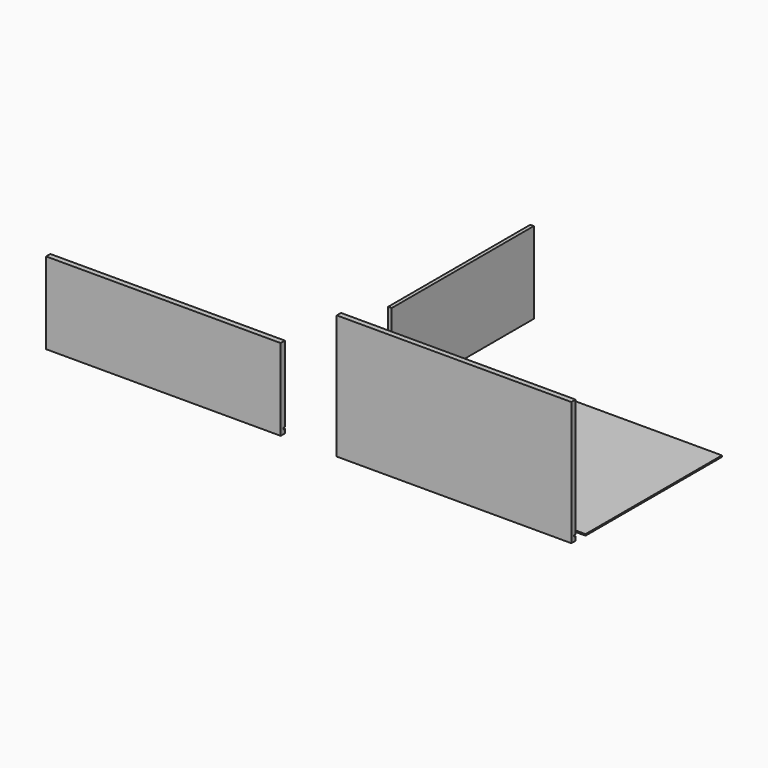
from build123d import *

# Parameters (mm, degrees)
F0_W      = 660.5
F0_H      = 12
F0_H_2    = 4
F0_H_3    = 334
F1_DEPTH  = 15
F2_W      = 662.5
F2_H      = 480
F3_DEPTH  = 4
F4_DEPTH  = 5
F5_W      = 660.5
F5_H      = 214
F5_H_2    = 4
F5_H_3    = 12
F6_DEPTH  = 15
F7_DEPTH  = 5
F8_W      = 500
F8_H      = 214
F8_H_2    = 4
F8_H_3    = 12
F9_DEPTH  = 10
F10_DEPTH = 5


with BuildPart() as f1:
    # F0 (on Front) → F1 (new body)
    with BuildSketch(Plane.XZ):
        with Locations((330.25, 6)):
            Rectangle(F0_W, F0_H)
        with Locations((330.25, 14)):
            Rectangle(F0_W, F0_H_2)
        with Locations((330.25, 183)):
            Rectangle(F0_W, F0_H_3)
    extrude(amount=F1_DEPTH)

    # F0 (on Front) → F4 (cut)
    with BuildSketch(Plane.XZ):
        with Locations((330.25, 14)):
            Rectangle(F0_W, F0_H_2)
    extrude(amount=F4_DEPTH, mode=Mode.SUBTRACT)


with BuildPart() as f3:
    # F2 (on Top) → F3 (new body)
    with BuildSketch(Plane.XY):
        with Locations((331.25, 272.481477)):
            Rectangle(F2_W, F2_H)
    extrude(amount=F3_DEPTH)


with BuildPart() as f6:
    # F5 (on Front) → F6 (new body)
    with BuildSketch(Plane.XZ):
        with Locations((-488.017345, 123)):
            Rectangle(F5_W, F5_H)
        with Locations((-488.017345, 14)):
            Rectangle(F5_W, F5_H_2)
        with Locations((-488.017345, 6)):
            Rectangle(F5_W, F5_H_3)
    extrude(amount=F6_DEPTH)

    # F5 (on Front) → F7 (cut)
    with BuildSketch(Plane.XZ):
        with Locations((-488.017345, 14)):
            Rectangle(F5_W, F5_H_2)
    extrude(amount=F7_DEPTH, mode=Mode.SUBTRACT)


with BuildPart() as f9:
    # F8 (on Right) → F9 (new body)
    with BuildSketch(Plane.YZ):
        with Locations((415.894054, 190.754717)):
            Rectangle(F8_W, F8_H)
        with Locations((415.894054, 81.754717)):
            Rectangle(F8_W, F8_H_2)
        with Locations((415.894054, 73.754717)):
            Rectangle(F8_W, F8_H_3)
    extrude(amount=F9_DEPTH)

    # F8 (on Right) → F10 (cut)
    with BuildSketch(Plane.YZ):
        with Locations((415.894054, 81.754717)):
            Rectangle(F8_W, F8_H_2)
    extrude(amount=F10_DEPTH, mode=Mode.SUBTRACT)


solid = Compound([f1.part, f3.part, f6.part, f9.part])
